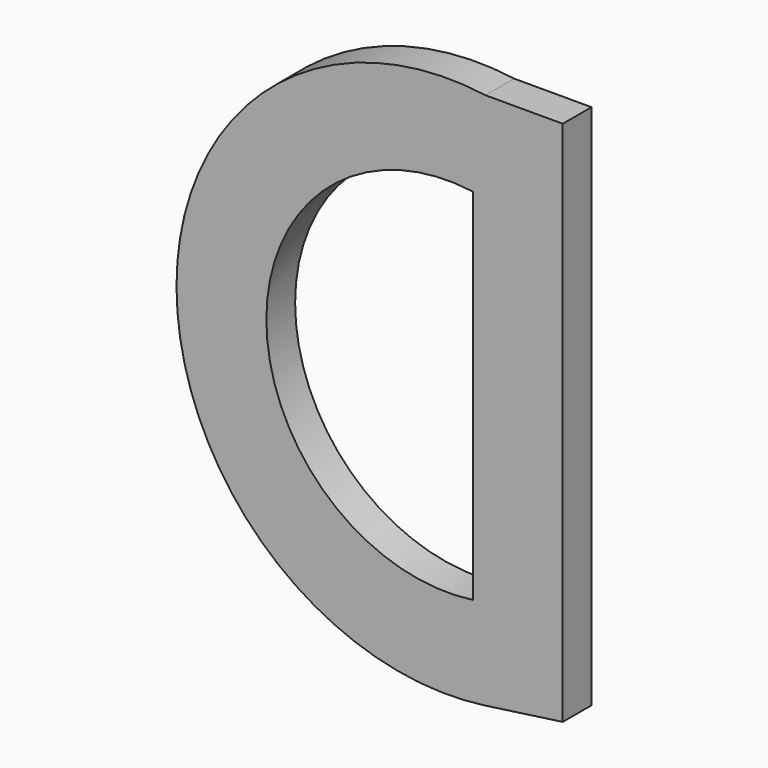
from build123d import *

# Parameters (mm, degrees)
F1_DEPTH = 2.54


with BuildPart() as f1:
    # F0 (on Front) → F1 (new body)
    with BuildSketch(Plane.XZ):
        with BuildLine():
            Line((6.35, 20.289631), (0.877862, 20.289631))
            ThreePointArc((0.877862, 20.289631), (-20.945874, 1.300604), (0.877862, -17.688423))
            Line((0.877862, -17.688423), (6.35, -16.924588))
            Line((6.35, -16.924588), (6.35, -11.399396))
            Line((6.35, -11.399396), (6.35, 14.000604))
            Line((6.35, 14.000604), (6.35, 20.289631))
        make_face()
        with BuildLine():
            ThreePointArc((0, -11.399396), (-14.595874, 1.300604), (0, 14.000604))
            Line((0, 14.000604), (0, -11.399396))
        make_face(mode=Mode.SUBTRACT)
    extrude(amount=F1_DEPTH)


solid = f1.part
